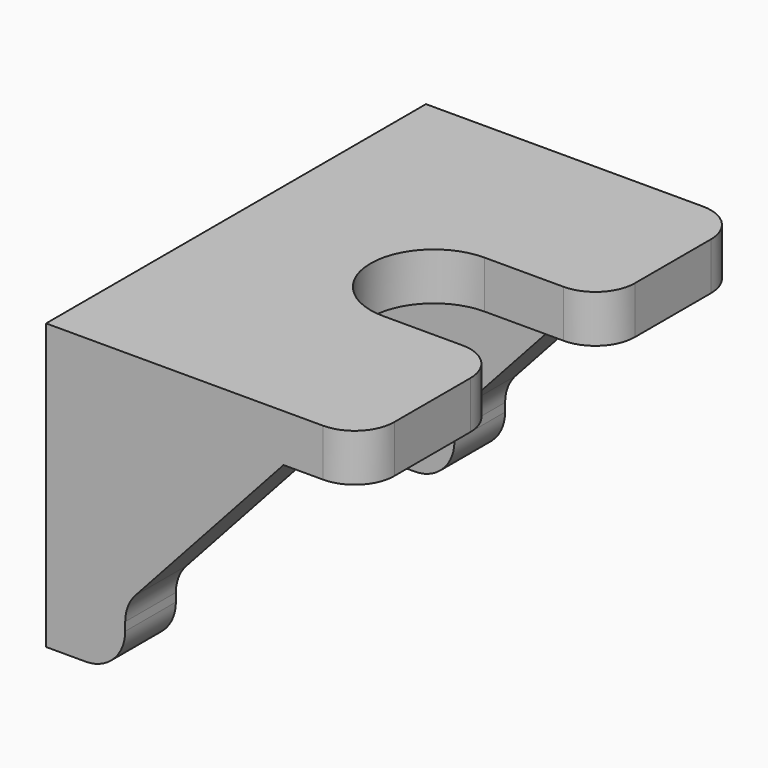
from build123d import *

# Parameters (mm, degrees)
PAD036_DEPTH           = 1.2
PAD037_DEPTH           = 1.6
LINEARPATTERN001_COUNT = 2
LINEARPATTERN001_PITCH = 10.4
FILLET003_R            = 1
FILLET004_R            = 1
FILLET005_R            = 1


with BuildPart() as part:
    # Sketch068 → Pad036 (new body)
    with BuildSketch(Plane.XY):
        with BuildLine():
            Line((-4, 6), (4, 6))
            Line((4, 6), (4, 1.6))
            Line((1, 1.6), (4, 1.6))
            ThreePointArc((1, 1.6), (-0.6, 0), (1, -1.6))
            Line((4, -1.6), (1, -1.6))
            Line((4, -1.6), (4, -6))
            Line((4, -6), (-4, -6))
            Line((-4, -6), (-4, 6))
        make_face()
    extrude(amount=PAD036_DEPTH)

    # Sketch069 (on DatumPlane) → Pad037 (join)
    with BuildSketch(Plane.XZ.offset(6)):
        Polygon((-4, 0), (-4, -6), (-2, -6), (-2, -4.4), (2, 0), align=None)
    pad037 = extrude(amount=-PAD037_DEPTH)

    # LinearPattern001: Pad037 ×2
    with Locations(*[(0, i * LINEARPATTERN001_PITCH, 0) for i in range(1, LINEARPATTERN001_COUNT)]):
        add(pad037)

    # Fillet003
    fillet003_edges = [part.edges().sort_by_distance(p)[0] for p in [
        (-2, -5.2, -6),
        (-2, 5.2, -6),
    ]]
    fillet(fillet003_edges, radius=FILLET003_R)

    # Fillet004
    fillet004_edges = [part.edges().sort_by_distance(p)[0] for p in [
        (-2, -5.2, -4.4),
        (-2, 5.2, -4.4),
    ]]
    fillet(fillet004_edges, radius=FILLET004_R)

    # Fillet005
    fillet005_edges = [part.edges().sort_by_distance(p)[0] for p in [
        (4, -6, 0.6),
        (4, -1.6, 0.6),
        (4, 1.6, 0.6),
        (4, 6, 0.6),
    ]]
    fillet(fillet005_edges, radius=FILLET005_R)


with BuildPart() as part_1:
    # Body011 placement: moved
    add(part.part.moved(Location((62, 5, 34.2))))


solid = part_1.part
